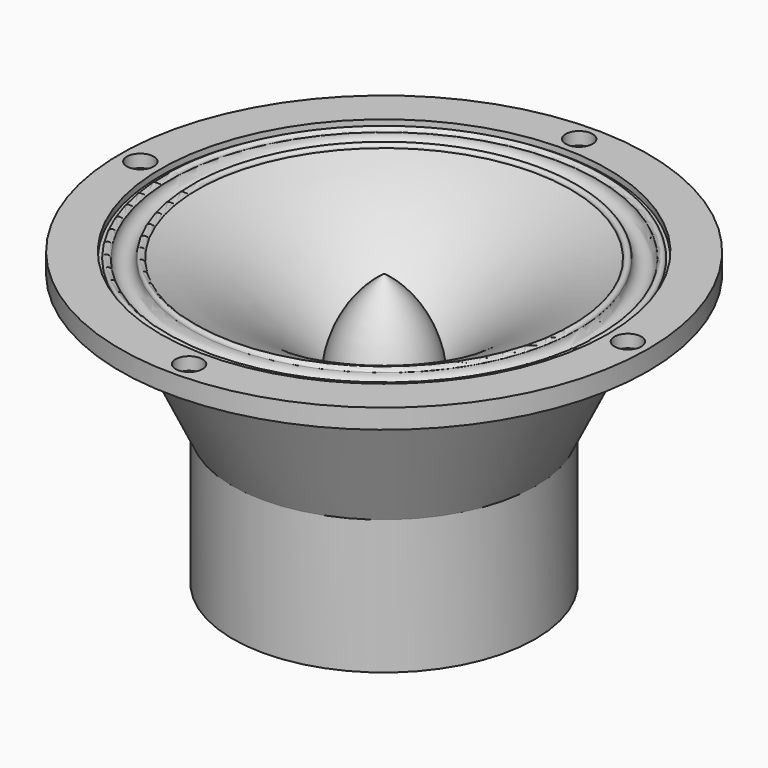
from build123d import *

# Parameters (mm, degrees)
F0_R     = 78.5
F0_R_2   = 4
F0_R_3   = 66.5
F1_DEPTH = 5.8
F0_R_4   = 2.5
F2_DEPTH = 2
F3_W     = 45
F3_H     = 40


with BuildPart() as f1:
    # F0 (on Top) → F1 (new body)
    with BuildSketch(Plane.XY):
        Circle(F0_R)
        with Locations((0, -72.5)):
            Circle(F0_R_2, mode=Mode.SUBTRACT)
        with Locations((-72.5, 0)):
            Circle(F0_R_2, mode=Mode.SUBTRACT)
        Circle(F0_R_3, mode=Mode.SUBTRACT)
        with Locations((72.5, 0)):
            Circle(F0_R_2, mode=Mode.SUBTRACT)
        with Locations((0, 72.5)):
            Circle(F0_R_2, mode=Mode.SUBTRACT)
    extrude(amount=F1_DEPTH)

    # F0 (on Top) → F2 (join)
    with BuildSketch(Plane.XY):
        with Locations((0, -72.5)):
            Circle(F0_R_2)
        with Locations((0, -72.5)):
            Circle(F0_R_4, mode=Mode.SUBTRACT)
        with Locations((-72.5, 0)):
            Circle(F0_R_2)
        with Locations((-72.5, 0)):
            Circle(F0_R_4, mode=Mode.SUBTRACT)
        with Locations((0, 72.5)):
            Circle(F0_R_2)
        with Locations((0, 72.5)):
            Circle(F0_R_4, mode=Mode.SUBTRACT)
        with Locations((72.5, 0)):
            Circle(F0_R_2)
        with Locations((72.5, 0)):
            Circle(F0_R_4, mode=Mode.SUBTRACT)
    extrude(amount=F2_DEPTH)


with BuildPart() as f4:
    # F3 (on Right) → F4 (revolve)
    with BuildSketch(Plane.YZ):
        with BuildLine():
            Line((0, -25), (-14.5, -25))
            ThreePointArc((-14.5, -25), (-33.149906, -7.884349), (-55.5, 4))
            ThreePointArc((-55.5, 4), (-56.5, 5), (-57.5, 4))
            ThreePointArc((-57.5, 4), (-60.5, 1), (-63.5, 4))
            ThreePointArc((-63.5, 4), (-64.5, 5), (-65.5, 4))
            Line((-65.5, 4), (-66.5, 4))
            Line((-66.5, 4), (-45, -41))
            Line((-45, -41), (0, -41))
            Line((0, -41), (0, -25))
        make_face()
        with Locations((-22.5, -61)):
            Rectangle(F3_W, F3_H)
    revolve(axis=Axis((0, 0, -12.5), (0, 0, -1)))


with BuildPart() as f5:
    # F3 (on Right) → F5 (revolve)
    with BuildSketch(Plane.YZ):
        with BuildLine():
            ThreePointArc((0, 0), (-9.95089, -10.933484), (-14.5, -25))
            Line((-14.5, -25), (0, -25))
            Line((0, -25), (0, 0))
        make_face()
    revolve(axis=Axis((0, 0, -12.5), (0, 0, -1)))


solid = Compound([f1.part, f4.part, f5.part])
